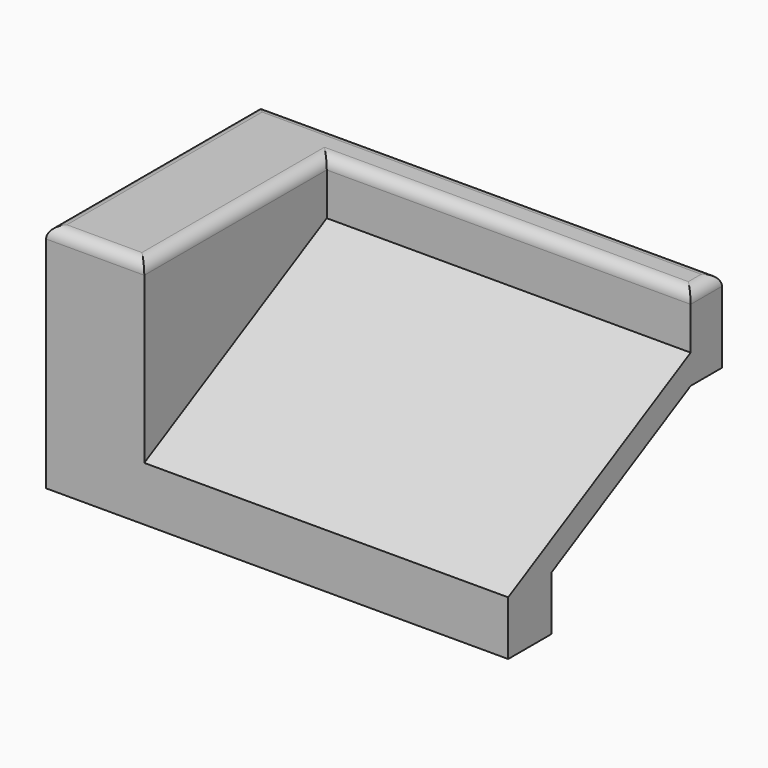
from build123d import *

# Parameters (mm, degrees)
F0_W      = 76.2
F0_H      = 58.7432836175
F0_W_2    = 12.7
F1_DEPTH  = 50.8
F3_DEPTH  = 15.24
F5_DEPTH  = 80.01
F7_DEPTH  = 25.4
F8_R      = 2.54
F10_DEPTH = 25.4
F11_W     = 43.6744932085
F11_H     = 27.1944999695
F12_DEPTH = 25.4
F14_DEPTH = 25.4


with BuildPart() as f1:
    # F0 (on Top) → F1 (new body)
    with BuildSketch(Plane.XY):
        Rectangle(F0_W, F0_H)
        with Locations((44.45, 0)):
            Rectangle(F0_W_2, F0_H)
        with Locations((-44.45, 0)):
            Rectangle(F0_W_2, F0_H)
    extrude(amount=F1_DEPTH)

    # F2 (on face) → F3 (cut)
    with BuildSketch(Plane(origin=(-50.8, 0, 0), x_dir=(0, -1, 0), z_dir=(-1, 0, 0))):
        with BuildLine():
            Line((-22.7101761848, 17.5973810256), (-22.7101761848, 0))
            Line((-22.7101761848, 0), (19.4533672184, 0))
            Line((19.4533672184, 0), (19.4533672184, 17.5973810256))
            ThreePointArc((19.4533672184, 17.5973810256), (-1.6284044832, 38.6791527271), (-22.7101761848, 17.5973810256))
        make_face()
    extrude(amount=-F3_DEPTH, mode=Mode.SUBTRACT)

    # F4 (on face) → F5 (cut)
    with BuildSketch(Plane.YZ.offset(50.8)):
        Polygon((-29.3716418087, 50.8), (-29.3716418087, 11.9435014203), (20.7798294723, 38.9182642102), (20.7798294723, 50.8), align=None)
    extrude(amount=-F5_DEPTH, mode=Mode.SUBTRACT)

    # F6 (on face) → F7 (cut)
    with BuildSketch(Plane.YZ.offset(50.8)):
        Polygon((-17.4182243645, 11.9435014203), (-17.4182243645, 0), (20.7798294723, 0), (29.3716418087, 0), (29.3716418087, 32.4889294001), (20.7798294723, 32.4889294001), align=None)
    extrude(amount=-F7_DEPTH, mode=Mode.SUBTRACT)

    # F8
    f8_edges = [f1.edges().sort_by_distance(p)[0] for p in [
        (10.795, 20.779829, 50.8),
        (-29.21, -4.295906, 50.8),
        (-40.005, -29.371642, 50.8),
        (-50.8, 0, 50.8),
        (0, 29.371642, 50.8),
        (50.8, 25.075736, 50.8),
        (-50.8, 1.628404, 38.679153),
    ]]
    fillet(f8_edges, radius=F8_R)

    # F9 (on face) → F10 (cut)
    with BuildSketch(Plane.YZ.offset(25.4)):
        Polygon((-9.3324668705, 11.9435014203), (-9.3324668705, 0), (29.3716418087, 0), (29.3716418087, 28.1398767242), (20.7798294723, 28.1398767242), align=None)
    extrude(amount=-F10_DEPTH, mode=Mode.SUBTRACT)

    # F11 (on Top) → F12 (cut)
    with BuildSketch(Plane.XY):
        with Locations((45.2370969579, 16.5996663272)):
            Rectangle(F11_W, F11_H)
    extrude(amount=-F12_DEPTH, mode=Mode.SUBTRACT)

    # F13 (on face) → F14 (cut)
    with BuildSketch(Plane.YZ):
        Polygon((-2.0139215048, 11.9435014203), (-2.0139215048, 0), (29.3716418087, 0), (29.3716418087, 24.2034812374), (20.7798294723, 24.2034812374), align=None)
    extrude(amount=-F14_DEPTH, mode=Mode.SUBTRACT)


solid = f1.part
